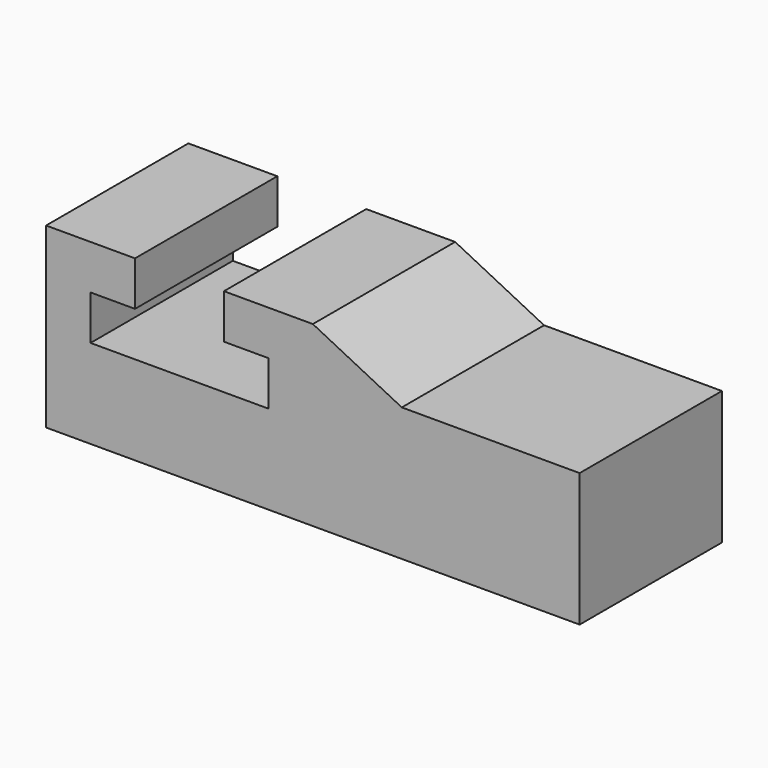
from build123d import *

# Parameters (mm, degrees)
F1_DEPTH = 50.8
F3_DEPTH = 254


with BuildPart() as f1:
    # F0 (on Front) → F1 (new body)
    with BuildSketch(Plane.XZ):
        Polygon((189.078076, 0), (163.678076, 0), (163.678076, -50.8), (316.078076, -50.8), (316.078076, -12.7), (265.278076, -12.7), (239.878068, 0), (214.478076, 0), (214.478076, -12.7), (227.178076, -12.7), (227.178076, -25.4), (176.378076, -25.4), (176.378076, -12.7), (189.078076, -12.7), align=None)
    extrude(amount=F1_DEPTH)

    # F2 (on Right) → F3 (cut)
    with BuildSketch(Plane.YZ):
        Polygon((-42.799003, -42.036999), (-37.211001, -49.911), (-11.811001, -49.911), (-7.239001, -42.036999), align=None)
    extrude(amount=-F3_DEPTH, mode=Mode.SUBTRACT)


solid = f1.part
